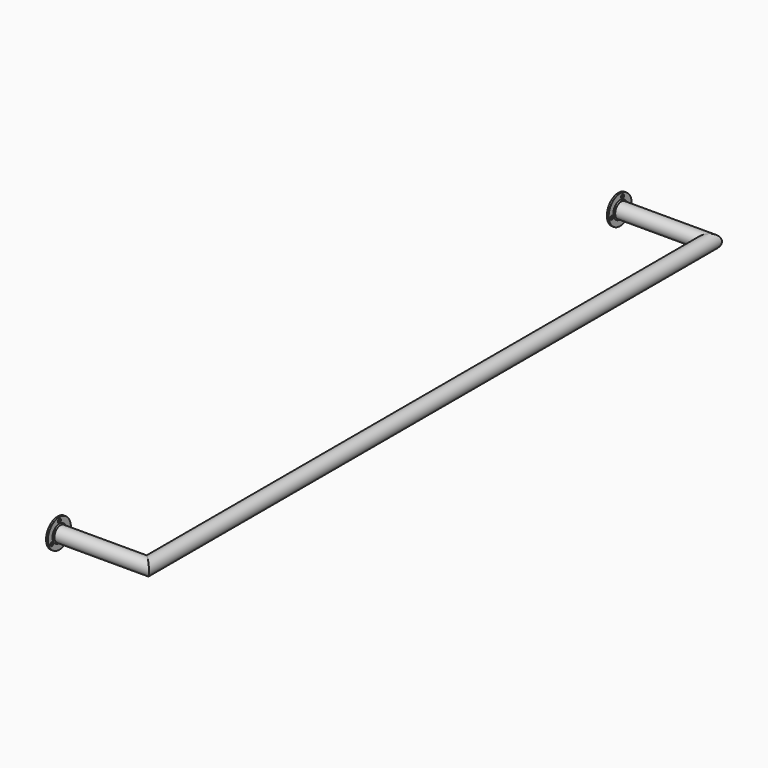
from build123d import *

# Parameters (mm, degrees)
F0_R     = 21
F0_R_2   = 20
F3_R     = 40
F3_R_2   = 3.25
F4_DEPTH = 5
F5_SIZE  = 2
F6_SIZE  = 3


with BuildPart() as f2:
    # F2: sweep along a path in F1
    with BuildLine(Plane.XY) as f2_path:
        Line((0, 0), (250, 0))
        Line((250, 0), (250, -1948.319))
        Line((250, -1948.319), (0, -1948.319))
    # F0 (on Right) → F2 (sweep)
    with BuildSketch(Plane.YZ):
        Circle(F0_R)
        Circle(F0_R_2, mode=Mode.SUBTRACT)
    sweep(path=f2_path.line, transition=Transition.RIGHT)

    # F3 (on face) → F4 (join)
    with BuildSketch(Plane(origin=(0, 0, 0), x_dir=(0, -1, 0), z_dir=(-1, 0, 0))):
        with Locations((1948.319, 0)):
            Circle(F3_R)
        with Locations((1921.9052251846, -15.25)):
            Circle(F3_R_2, mode=Mode.SUBTRACT)
        with Locations((1974.7327748154, -15.25)):
            Circle(F3_R_2, mode=Mode.SUBTRACT)
        with Locations((1948.319, 30.5)):
            Circle(F3_R_2, mode=Mode.SUBTRACT)
        Circle(F3_R)
        with Locations((-21.187080299, -21.9398639103)):
            Circle(F3_R_2, mode=Mode.SUBTRACT)
        with Locations((29.5940196514, -7.3786178158)):
            Circle(F3_R_2, mode=Mode.SUBTRACT)
        with Locations((-8.4069393524, 29.3184817261)):
            Circle(F3_R_2, mode=Mode.SUBTRACT)
    extrude(amount=-F4_DEPTH)

    # F5
    f5_edges = [f2.edges().sort_by_distance(p)[0] for p in [
        (5, 11.656939, 29.318482),
        (5, -26.34402, -7.378618),
        (5, 24.43708, -21.939864),
        (5, -1945.069, 30.5),
        (5, -1971.482775, -15.25),
        (5, -1918.655225, -15.25),
    ]]
    chamfer(f5_edges, length=F5_SIZE)

    # F6
    f6_edges = [f2.edges().sort_by_distance(p)[0] for p in [
        (5, -21, 0),
        (5, -1927.319, 0),
    ]]
    chamfer(f6_edges, length=F6_SIZE)


solid = f2.part
